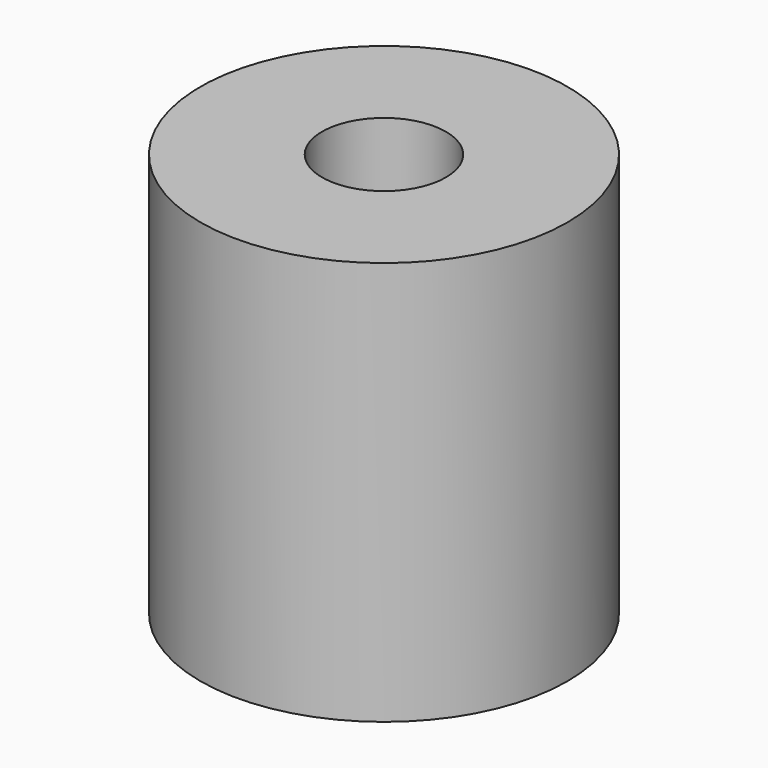
from build123d import *

# Parameters (mm, degrees)
F1_R     = 38.365941
F1_R_2   = 12.941286
F2_DEPTH = 84.417805


with BuildPart() as f2:
    # F1 (on face) → F2 (new body)
    with BuildSketch(Plane.XY):
        Circle(F1_R)
        Circle(F1_R_2, mode=Mode.SUBTRACT)
    extrude(amount=F2_DEPTH)


solid = f2.part
